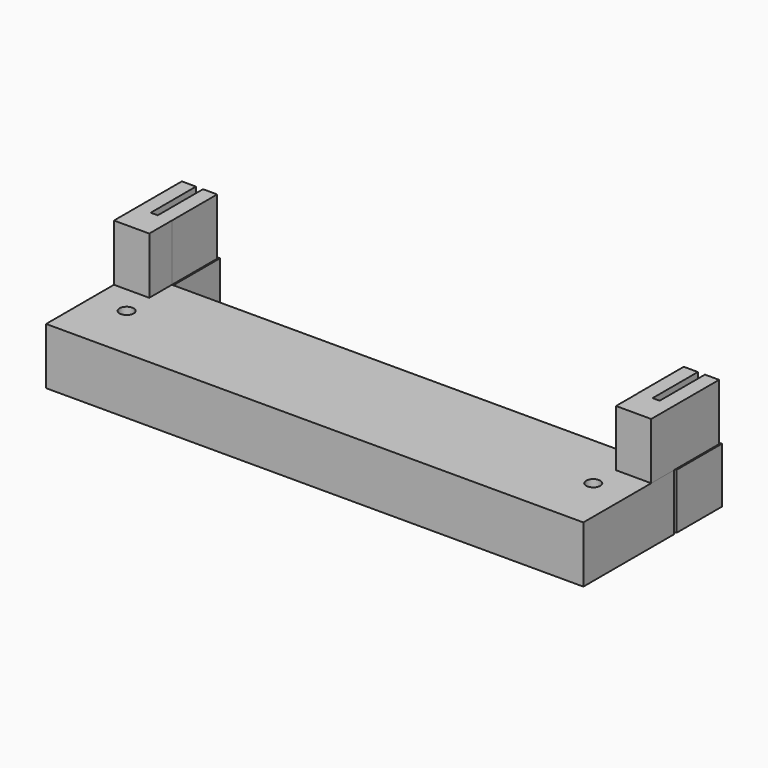
from build123d import *

# Parameters (mm, degrees)
F0_W     = 120.65
F0_H     = 25.4
F0_R     = 1.5875
F1_DEPTH = 12.7
F0_W_2   = 0.79375
F0_H_2   = 12.7
F2_DEPTH = 12.446
F3_W     = 3.175
F3_H     = 12.7
F4_DEPTH = 12.7


with BuildPart() as f1:
    # F0 (on Top) → F1 (new body)
    with BuildSketch(Plane.XY):
        Rectangle(F0_W, F0_H)
        with Locations((-52.3875, 0)):
            Circle(F0_R, mode=Mode.SUBTRACT)
        with Locations((52.3875, 0)):
            Circle(F0_R, mode=Mode.SUBTRACT)
    extrude(amount=F1_DEPTH)


with BuildPart() as f2:
    # F0 (on Top) → F2 (new body)
    with BuildSketch(Plane.XY):
        with Locations((-59.928125, 19.84375)):
            Rectangle(F0_W_2, F0_H_2)
        with Locations((-57.546875, 19.84375)):
            Rectangle(F0_W_2, F0_H_2)
        with Locations((-55.165625, 19.84375)):
            Rectangle(F0_W_2, F0_H_2)
        with Locations((-52.784375, 19.84375)):
            Rectangle(F0_W_2, F0_H_2)
        with Locations((52.784375, 19.84375)):
            Rectangle(F0_W_2, F0_H_2)
        with Locations((55.165625, 19.84375)):
            Rectangle(F0_W_2, F0_H_2)
        with Locations((57.546875, 19.84375)):
            Rectangle(F0_W_2, F0_H_2)
        with Locations((59.928125, 19.84375)):
            Rectangle(F0_W_2, F0_H_2)
    extrude(amount=F2_DEPTH)


with BuildPart() as f4:
    # F3 (on face) → F4 (new body)
    with BuildSketch(Plane.XY.offset(12.7)):
        with Locations((-58.7375, 19.05)):
            Rectangle(F3_W, F3_H)
        Polygon((-55.5625, 25.4), (-55.5625, 12.7), (-52.395087, 12.7), (-52.3875, 12.7), (-52.3875, 25.4), align=None)
        Polygon((52.3875, 25.4), (52.3875, 12.7), (52.414954, 12.7), (55.5625, 12.7), (55.5625, 25.4), align=None)
        with Locations((58.7375, 19.05)):
            Rectangle(F3_W, F3_H)
        Polygon((-57.15, 12.7), (-60.325, 12.7), (-60.325, 6.35), (-52.395087, 6.35), (-52.395087, 12.7), (-55.5625, 12.7), align=None)
        Polygon((52.414954, 6.35), (60.325, 6.35), (60.325, 12.7), (57.15, 12.7), (55.5625, 12.7), (52.414954, 12.7), align=None)
    extrude(amount=F4_DEPTH)


solid = Compound([f1.part, f2.part, f4.part])
